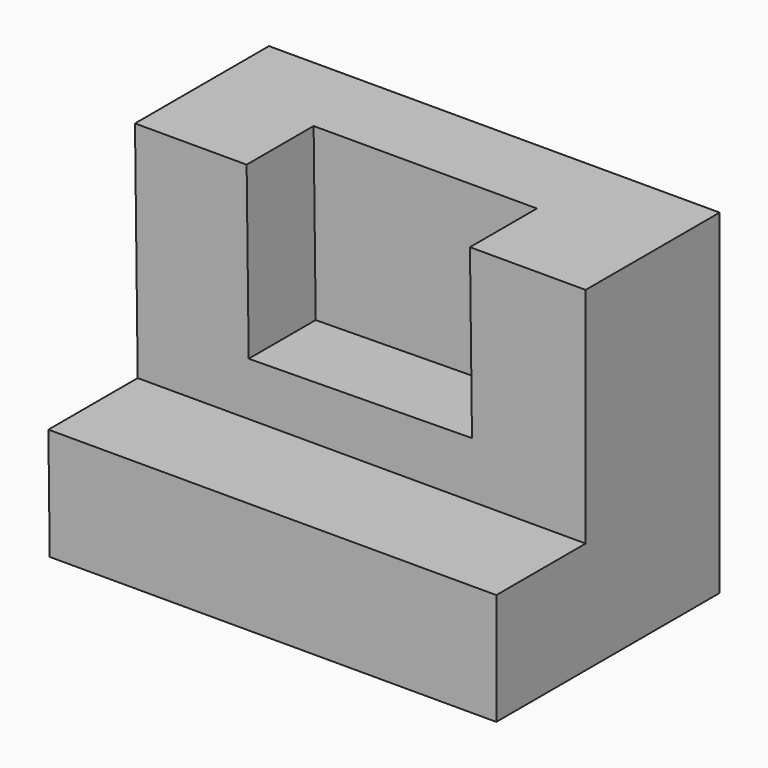
from build123d import *

# Parameters (mm, degrees)
F1_DEPTH = 63.5
F2_W     = 25.4
F2_H     = 50.8
F3_DEPTH = 104.14
F5_DEPTH = 19.05


with BuildPart() as f1:
    # F0 (on Front) → F1 (new body)
    with BuildSketch(Plane.XZ):
        Polygon((-51.261814, 60.08761), (-50.338179, -16.11239), (51.261821, -16.11239), (51.261821, 60.08761), align=None)
    extrude(amount=F1_DEPTH)

    # F2 (on face) → F3 (cut)
    with BuildSketch(Plane.YZ.offset(51.261821)):
        with Locations((-50.8, 34.68761)):
            Rectangle(F2_W, F2_H)
    extrude(amount=-F3_DEPTH, mode=Mode.SUBTRACT)

    # F4 (on face) → F5 (cut)
    with BuildSketch(Plane.XZ.offset(38.1)):
        Polygon((24.941918, 60.08761), (-25.861814, 60.08761), (-25.392567, 21.374697), (25.403702, 21.990409), align=None)
    extrude(amount=-F5_DEPTH, mode=Mode.SUBTRACT)


solid = f1.part
